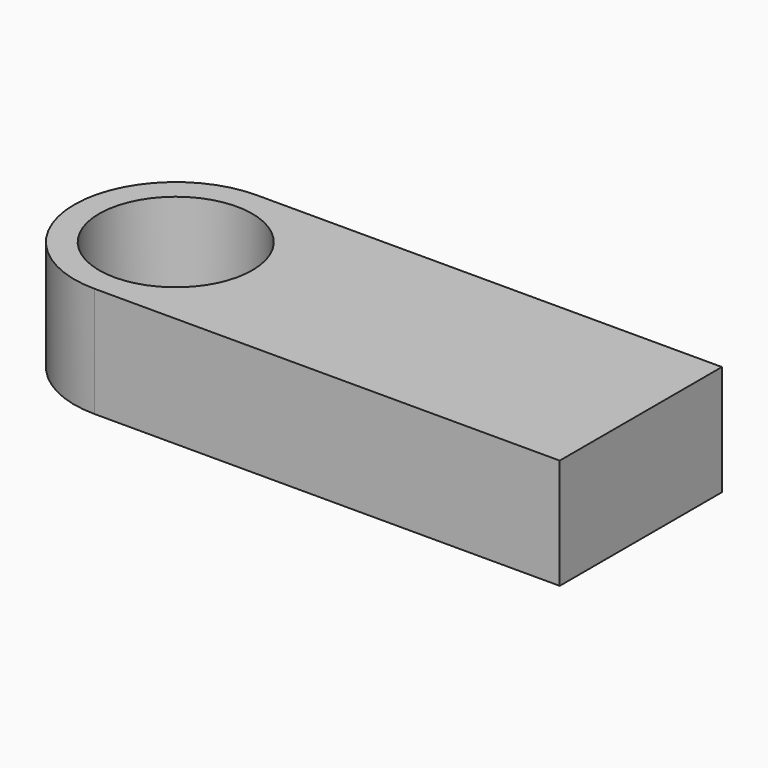
from build123d import *

# Parameters (mm, degrees)
F1_DEPTH = 241.3


with BuildPart() as f1:
    # F0 (on Top) → F1 (new body)
    with BuildSketch(Plane.XY):
        with BuildLine():
            ThreePointArc((-287.03302145, 0), (-352.0038861968, -156.8535428307), (-508.8574290276, -221.8244075775))
            Line((-508.8574290276, -221.8244075775), (508.8574290276, -221.8244075775))
            Line((508.8574290276, -221.8244075775), (508.8574290276, 221.8244075775))
            Line((508.8574290276, 221.8244075775), (-508.8574290276, 221.8244075775))
            ThreePointArc((-508.8574290276, 221.8244075775), (-352.0038861968, 156.8535428307), (-287.03302145, 0))
        make_face()
        with BuildLine():
            ThreePointArc((-508.8574290276, 221.8244075775), (-730.6818366051, 0), (-508.8574290276, -221.8244075775))
            Line((-508.8574290276, -221.8244075775), (-508.8574290276, -167.6070357018))
            ThreePointArc((-508.8574290276, -167.6070357018), (-676.4644647293, 0), (-508.8574290276, 167.6070357018))
            Line((-508.8574290276, 167.6070357018), (-508.8574290276, 221.8244075775))
        make_face()
        with BuildLine():
            Line((-508.8574290276, -167.6070357018), (-508.8574290276, -221.8244075775))
            ThreePointArc((-508.8574290276, -221.8244075775), (-352.0038861968, -156.8535428307), (-287.03302145, 0))
            ThreePointArc((-287.03302145, 0), (-352.0038861968, 156.8535428307), (-508.8574290276, 221.8244075775))
            Line((-508.8574290276, 221.8244075775), (-508.8574290276, 167.6070357018))
            ThreePointArc((-508.8574290276, 167.6070357018), (-390.3413575083, 118.5160715193), (-341.2503933258, 0))
            ThreePointArc((-341.2503933258, 0), (-390.3413575083, -118.5160715193), (-508.8574290276, -167.6070357018))
        make_face()
    extrude(amount=F1_DEPTH)


solid = f1.part
